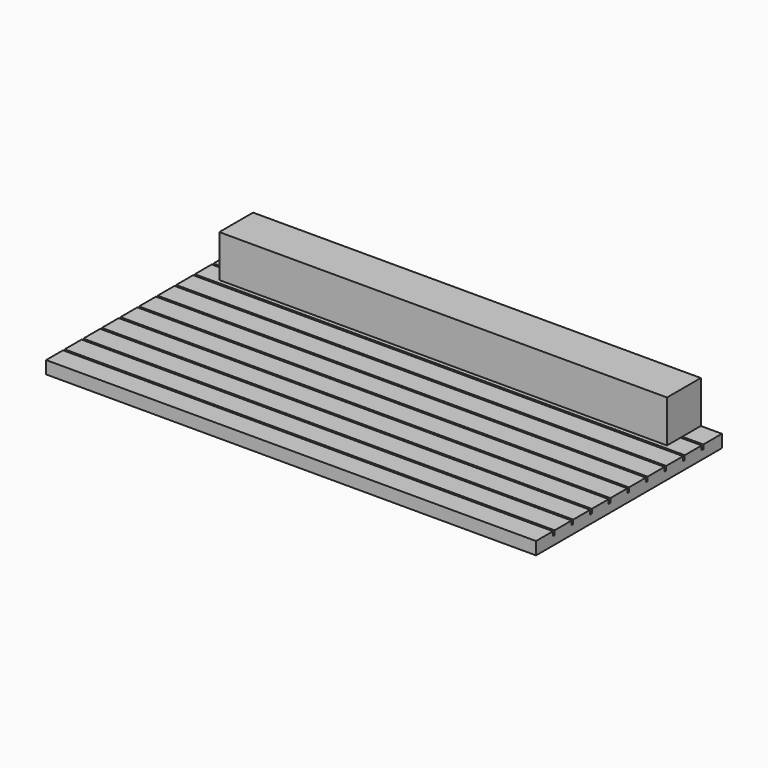
from build123d import *

# Parameters (mm, degrees)
F0_W     = 26.924
F0_H     = 2.54
F1_DEPTH = 2.54
F2_W     = 29.464
F2_H     = 13.97
F3_DEPTH = 0.762
F4_W     = 29.464
F4_H     = 0.127
F5_DEPTH = 0.254


with BuildPart() as f1:
    # F0 (on Top) → F1 (new body)
    with BuildSketch(Plane.XY):
        with Locations((0, -1.27)):
            Rectangle(F0_W, F0_H)
    extrude(amount=F1_DEPTH)

    # F2 (on Top) → F3 (join)
    with BuildSketch(Plane.XY):
        with Locations((0, -6.985)):
            Rectangle(F2_W, F2_H)
    extrude(amount=-F3_DEPTH)

    # F4 (on face) → F5 (cut)
    with BuildSketch(Plane.XY):
        with Locations((0, -12.6365)):
            Rectangle(F4_W, F4_H)
        with Locations((0, -11.2395)):
            Rectangle(F4_W, F4_H)
        with Locations((0, -9.8425)):
            Rectangle(F4_W, F4_H)
        with Locations((0, -8.4455)):
            Rectangle(F4_W, F4_H)
        with Locations((0, -7.0485)):
            Rectangle(F4_W, F4_H)
        with Locations((0, -5.6515)):
            Rectangle(F4_W, F4_H)
        with Locations((0, -4.2545)):
            Rectangle(F4_W, F4_H)
        with Locations((0, -2.8575)):
            Rectangle(F4_W, F4_H)
        with Locations((0, -1.4605)):
            Rectangle(F4_W, F4_H)
    extrude(amount=-F5_DEPTH, mode=Mode.SUBTRACT)


solid = f1.part
